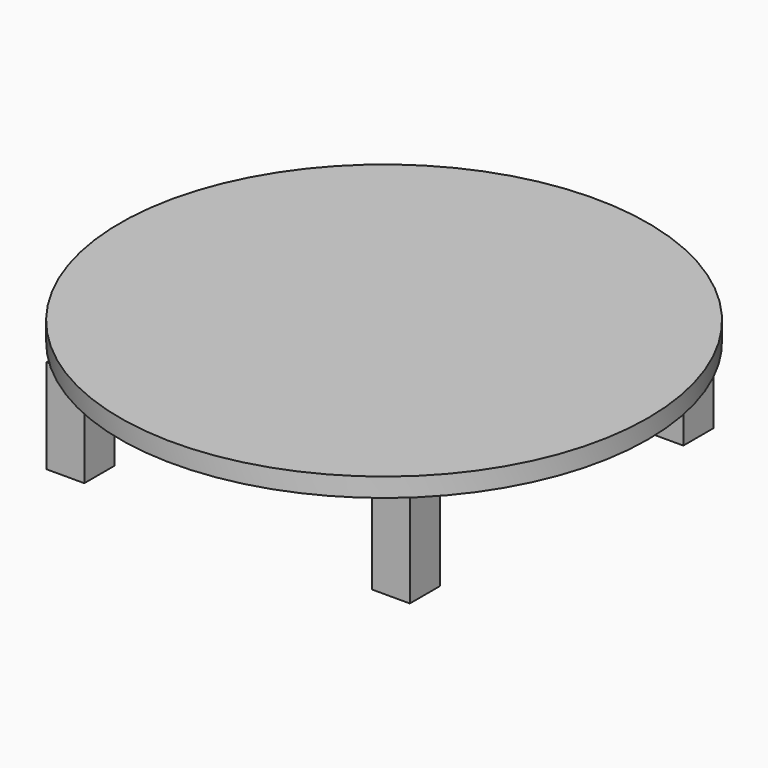
from build123d import *

# Parameters (mm, degrees)
F0_W     = 10
F0_H     = 10
F1_DEPTH = 25
F2_R     = 70
F3_DEPTH = 5


with BuildPart() as f1:
    # F0 (on Top) → F1 (new body)
    with BuildSketch(Plane.XY):
        with Locations((-42.893992, 44.902285)):
            Rectangle(F0_W, F0_H)
        with Locations((42.43937, 44.902285)):
            Rectangle(F0_W, F0_H)
        with Locations((42.43937, -45.76441)):
            Rectangle(F0_W, F0_H)
        with Locations((-43.893993, -45.76441)):
            Rectangle(F0_W, F0_H)
    extrude(amount=F1_DEPTH)


with BuildPart() as f3:
    # F2 (on face) → F3 (new body)
    with BuildSketch(Plane.XY.offset(25)):
        Circle(F2_R)
    extrude(amount=F3_DEPTH)


solid = Compound([f1.part, f3.part])
